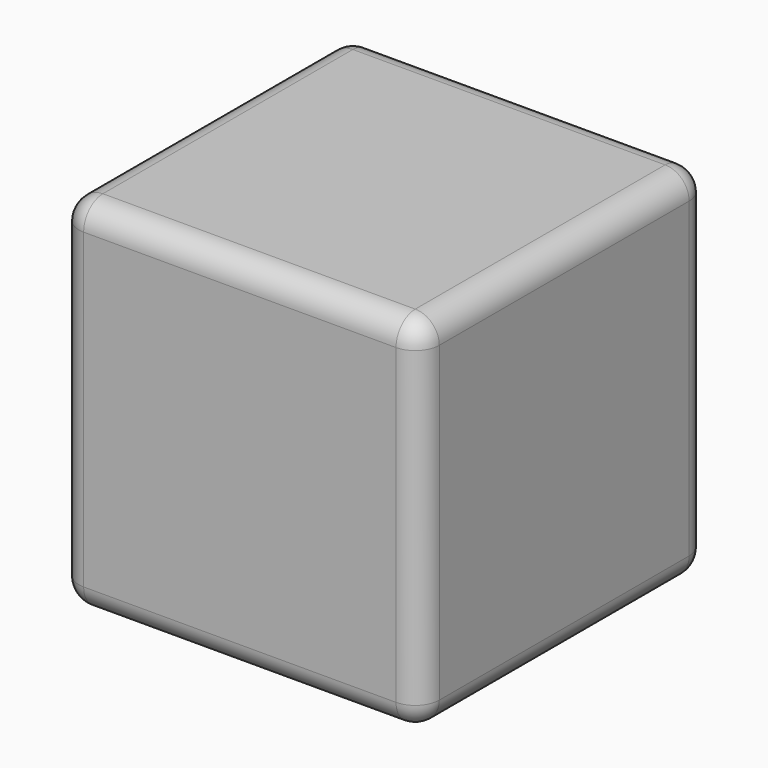
from build123d import *

# Parameters (mm, degrees)
F0_W     = 300
F0_H     = 300
F1_DEPTH = 300
F2_R     = 20
F3_R     = 25
F4_DEPTH = 30
F5_R     = 25
F6_DEPTH = 3


with BuildPart() as f1:
    # F0 (on Top) → F1 (new body)
    with BuildSketch(Plane.XY):
        with Locations((-64.879608, 0.722477)):
            Rectangle(F0_W, F0_H)
    extrude(amount=F1_DEPTH)

    # F2
    f2_edges = [f1.edges().sort_by_distance(p)[0] for p in [
        (-214.879608, 150.722477, 150),
        (-64.879608, 150.722477, 300),
        (-214.879608, 0.722477, 300),
        (-64.879608, 150.722477, 0),
        (-214.879608, 0.722477, 0),
        (-64.879608, -149.277523, 0),
        (85.120392, 0.722477, 0),
        (85.120392, 150.722477, 150),
        (-214.879608, -149.277523, 150),
        (85.120392, -149.277523, 150),
        (-64.879608, -149.277523, 300),
        (85.120392, 0.722477, 300),
    ]]
    fillet(f2_edges, radius=F2_R)

    # F3 (on face) → F4 (cut)
    with BuildSketch(Plane(origin=(0, 0, 0), x_dir=(1, 0, 0), z_dir=(0, 0, -1))):
        with Locations((-64.879608, -0.722477)):
            Circle(F3_R)
    extrude(amount=-F4_DEPTH, mode=Mode.SUBTRACT)

    # F5 (on face) → F6 (cut)
    with BuildSketch(Plane(origin=(-214.879608, 0, 0), x_dir=(0, -1, 0), z_dir=(-1, 0, 0))):
        with Locations((64.277523, 215)):
            Circle(F5_R)
        with Locations((-0.722477, 150)):
            Circle(F5_R)
        with Locations((64.277523, 85)):
            Circle(F5_R)
        with Locations((-65.722477, 85)):
            Circle(F5_R)
        with Locations((-65.722477, 215)):
            Circle(F5_R)
    extrude(amount=-F6_DEPTH, mode=Mode.SUBTRACT)


solid = f1.part
